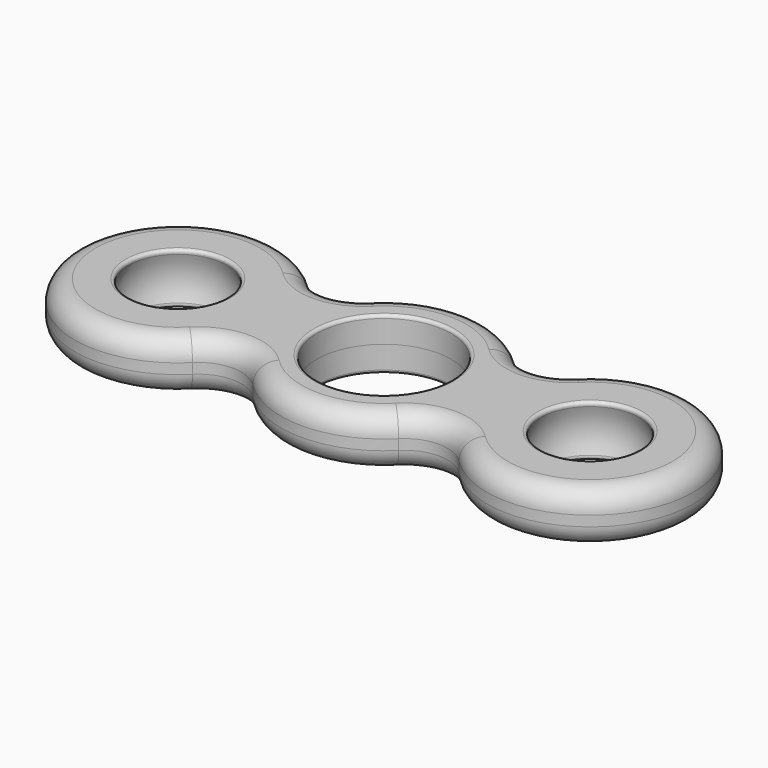
from build123d import *

# Parameters (mm, degrees)
F0_R     = 6.525
F1_DEPTH = 2.5
F2_DEPTH = 2.5
F7_R     = 2
F8_R     = 0.3


with BuildPart() as f1:
    # F0 (on Top) → F1 (new body)
    with BuildSketch(Plane.XY):
        with BuildLine():
            ThreePointArc((-12.9288643756, -7.0709999987), (-10, -5.8578081982), (-7.0711356244, -7.0709999987))
            ThreePointArc((-7.0711356244, -7.0709999987), (0, -10), (7.0711356244, -7.0709999987))
            ThreePointArc((7.0711356244, -7.0709999987), (10, -5.8578081982), (12.9288643756, -7.0709999987))
            ThreePointArc((12.9288643756, -7.0709999987), (30, 0), (12.9288643756, 7.0709999987))
            ThreePointArc((12.9288643756, 7.0709999987), (10, 5.8578081982), (7.0711356244, 7.0709999987))
            ThreePointArc((7.0711356244, 7.0709999987), (0, 10), (-7.0711356244, 7.0709999987))
            ThreePointArc((-7.0711356244, 7.0709999987), (-10, 5.8578081982), (-12.9288643756, 7.0709999987))
            ThreePointArc((-12.9288643756, 7.0709999987), (-30, 0), (-12.9288643756, -7.0709999987))
        make_face()
        Circle(F0_R, mode=Mode.SUBTRACT)
    extrude(amount=F1_DEPTH)

    # F2 (add): a face of the model
    f2_faces = [f1.faces().sort_by_distance(p)[0] for p in [
        (-10, -5.2253526661, 0),
    ]]
    extrude(f2_faces, amount=F2_DEPTH)

    # F3 (on Front) → F4 (revolve, cut)
    with BuildSketch(Plane.XZ):
        with BuildLine():
            Line((-20, -5.23), (-20, 5.23))
            ThreePointArc((-20, 5.23), (-25.23, 0), (-20, -5.23))
        make_face()
    revolve(axis=Axis((-20, 0, 0), (0, 0, -1)), mode=Mode.SUBTRACT)

    # F5 (on Front) → F6 (revolve, cut)
    with BuildSketch(Plane.XZ):
        with BuildLine():
            Line((20, 5.23), (20, -5.23))
            ThreePointArc((20, -5.23), (25.23, 0), (20, 5.23))
        make_face()
    revolve(axis=Axis((20, 0, 0), (0, 0, -1)), mode=Mode.SUBTRACT)

    # F7
    f7_edges = [f1.edges().sort_by_distance(p)[0] for p in [
        (-10, -5.857808, -2.5),
        (0, -10, 2.5),
    ]]
    fillet(f7_edges, radius=F7_R)

    # F8
    f8_edges = [f1.edges().sort_by_distance(p)[0] for p in [
        (15.406211, 0, -2.5),
        (25.23, 0, 0),
        (15.406211, 0, 2.5),
        (-6.525, 0, 2.5),
        (6.525, 0, 0),
        (-6.525, 0, -2.5),
        (-15.406211, 0, 2.5),
        (-25.23, 0, 0),
        (-15.406211, 0, -2.5),
    ]]
    fillet(f8_edges, radius=F8_R)


solid = f1.part
